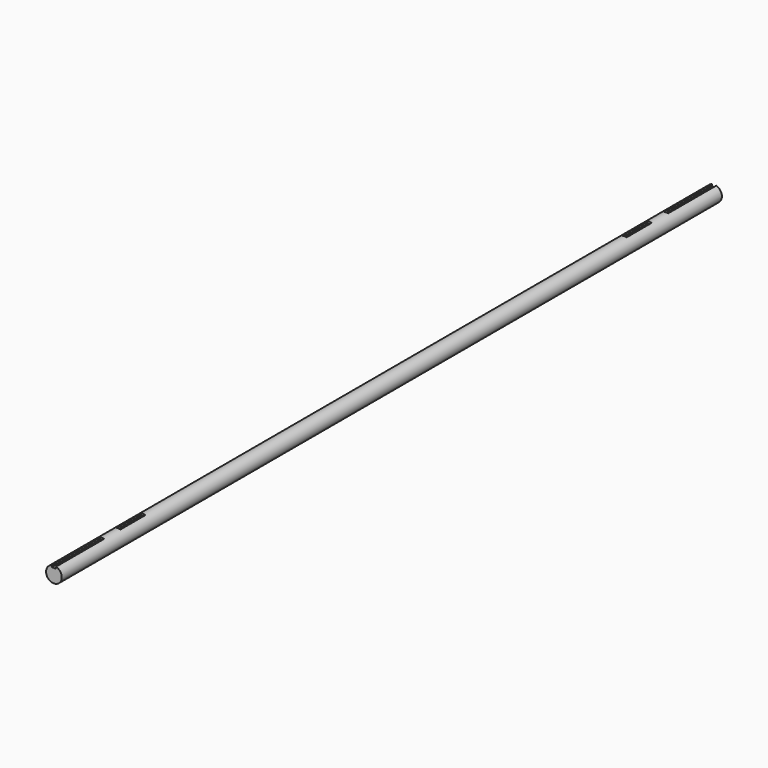
from build123d import *

# Parameters (mm, degrees)
F0_R     = 15
F1_DEPTH = 789
F3_W     = 8
F3_H     = 115
F3_H_2   = 60
F4_DEPTH = 4


with BuildPart() as f1:
    # F0 (on Front) → F1 (new body, symmetric)
    with BuildSketch(Plane.XZ):
        Circle(F0_R)
    extrude(amount=F1_DEPTH, both=True)

    # F3 (on offset) → F4 (cut)
    with BuildSketch(Plane.XY.offset(15)):
        with Locations((0, 731.5)):
            Rectangle(F3_W, F3_H)
        with Locations((0, -605)):
            Rectangle(F3_W, F3_H_2)
        with Locations((0, -731.5)):
            Rectangle(F3_W, F3_H)
        with Locations((0, 605)):
            Rectangle(F3_W, F3_H_2)
    extrude(amount=-F4_DEPTH, mode=Mode.SUBTRACT)


solid = f1.part
